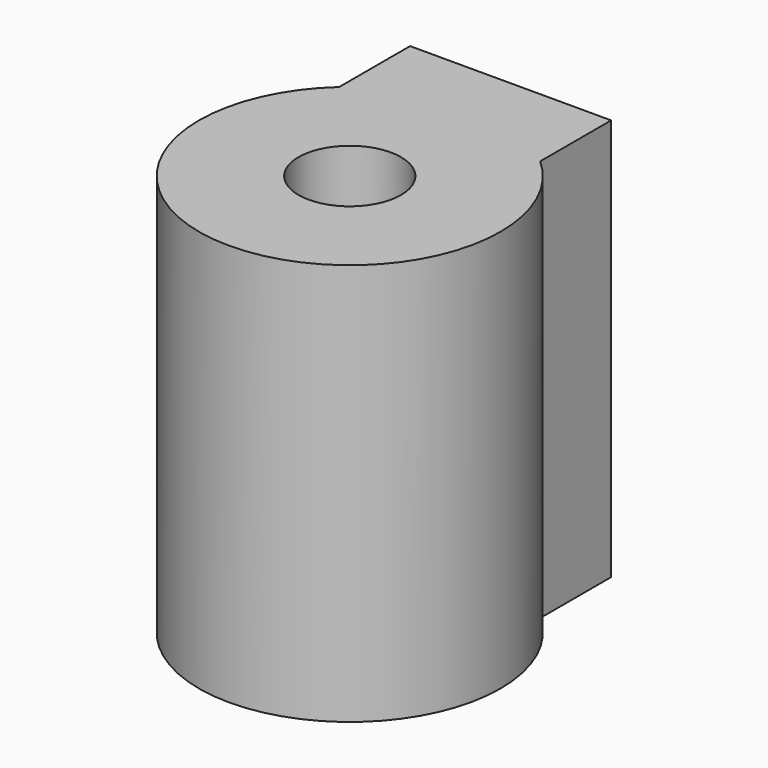
from build123d import *

# Parameters (mm, degrees)
SKETCH_R        = 15
PAD_DEPTH       = 20
SKETCH003_W     = 20
SKETCH003_H     = 40
PAD002_DEPTH    = 20
SKETCH002_R     = 3
POCKET_DEPTH    = 20.001
POCKET001_DEPTH = 20.001
SKETCH005_R     = 5.1
POCKET002_DEPTH = 20.001


with BuildPart() as part:
    # Sketch → Pad (new body, symmetric)
    with BuildSketch(Plane.XY):
        Circle(SKETCH_R)
    extrude(amount=PAD_DEPTH, both=True)

    # Sketch003 → Pad002 (join)
    with BuildSketch(Plane.XZ):
        Rectangle(SKETCH003_W, SKETCH003_H)
    extrude(amount=-PAD002_DEPTH)

    # Sketch002 → Pocket (cut, through all)
    with BuildSketch(Plane.XZ):
        with Locations((0, 10)):
            Circle(SKETCH002_R)
        with Locations((0, -10)):
            Circle(SKETCH002_R)
    extrude(amount=-POCKET_DEPTH, mode=Mode.SUBTRACT)

    # Sketch004 → Pocket001 (cut, through all)
    with BuildSketch(Plane.XY):
        with BuildLine():
            ThreePointArc((-4.781213, 5.45), (0, -7.25), (4.781213, 5.45))
            Line((-4.781213, 5.45), (4.781213, 5.45))
        make_face()
    extrude(amount=-POCKET001_DEPTH, mode=Mode.SUBTRACT)

    # Sketch005 → Pocket002 (cut, through all)
    with BuildSketch(Plane.XY):
        Circle(SKETCH005_R)
    extrude(amount=POCKET002_DEPTH, mode=Mode.SUBTRACT)


solid = part.part
